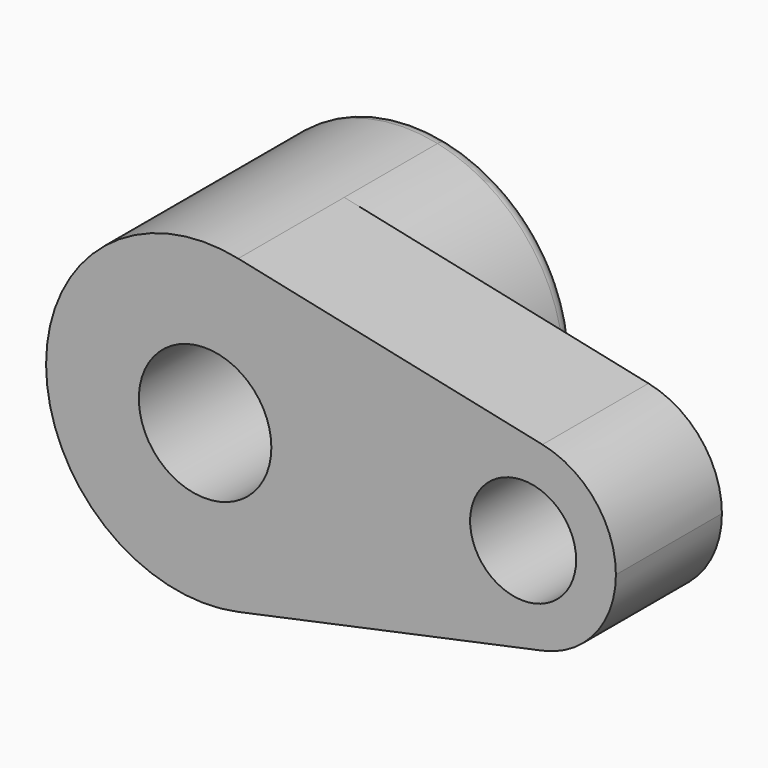
from build123d import *

# Parameters (mm, degrees)
F0_R     = 12.5
F0_R_2   = 10
F1_DEPTH = 25
F2_DEPTH = 25
F3_R     = 3
F4_SIZE  = 3


with BuildPart() as f1:
    # F0 (on Front) → F1 (new body)
    with BuildSketch(Plane.XZ):
        with BuildLine():
            ThreePointArc((6.25, -29.341736), (23.318448, -18.874586), (30, 0))
            ThreePointArc((30, 0), (23.318448, 18.874586), (6.25, 29.341736))
            ThreePointArc((6.25, 29.341736), (-30, 0), (6.25, -29.341736))
        make_face()
        Circle(F0_R, mode=Mode.SUBTRACT)
        with BuildLine():
            ThreePointArc((6.25, 29.341736), (23.318448, 18.874586), (30, 0))
            ThreePointArc((30, 0), (23.318448, -18.874586), (6.25, -29.341736))
            Line((6.25, -29.341736), (63.645833, -17.116013))
            ThreePointArc((63.645833, -17.116013), (42.5, 0), (63.645833, 17.116013))
            Line((63.645833, 17.116013), (6.25, 29.341736))
        make_face()
        with BuildLine():
            ThreePointArc((77.5, 0), (73.602428, 11.010175), (63.645833, 17.116013))
            ThreePointArc((63.645833, 17.116013), (42.5, 0), (63.645833, -17.116013))
            ThreePointArc((63.645833, -17.116013), (73.602428, -11.010175), (77.5, 0))
        make_face()
        with Locations((60, 0)):
            Circle(F0_R_2, mode=Mode.SUBTRACT)
    extrude(amount=F1_DEPTH)

    # F0 (on Front) → F2 (join)
    with BuildSketch(Plane.XZ):
        with BuildLine():
            ThreePointArc((6.25, -29.341736), (23.318448, -18.874586), (30, 0))
            ThreePointArc((30, 0), (23.318448, 18.874586), (6.25, 29.341736))
            ThreePointArc((6.25, 29.341736), (-30, 0), (6.25, -29.341736))
        make_face()
        Circle(F0_R, mode=Mode.SUBTRACT)
    extrude(amount=-F2_DEPTH)

    # F3
    f3_edges = [f1.edges().sort_by_distance(p)[0] for p in [
        (-6.25, 25, 29.341736),
    ]]
    fillet(f3_edges, radius=F3_R)

    # F4
    f4_edges = [f1.edges().sort_by_distance(p)[0] for p in [
        (-12.5, 25, 0),
        (50, 0, 0),
    ]]
    chamfer(f4_edges, length=F4_SIZE)


solid = f1.part
